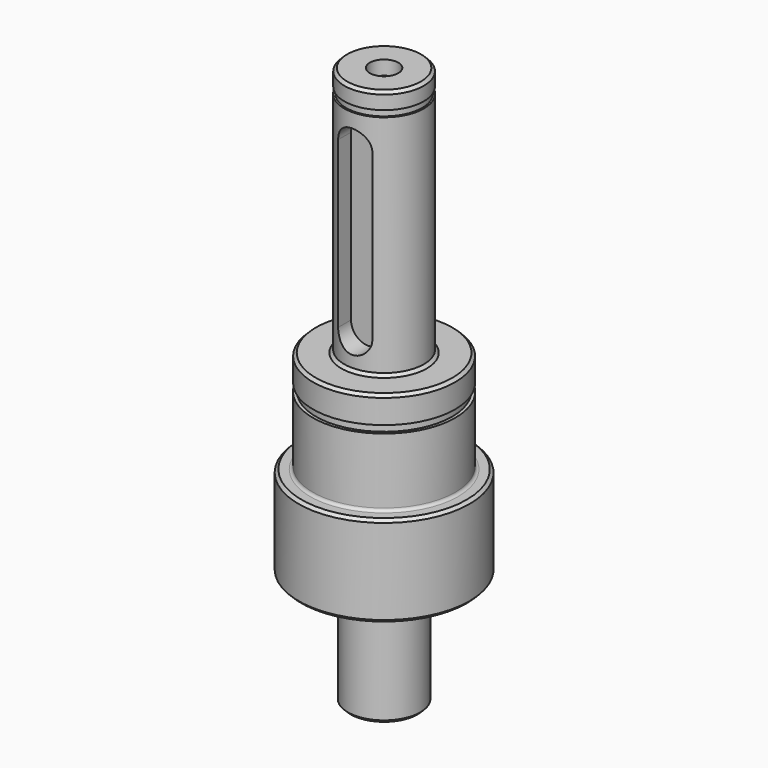
from build123d import *

# Parameters (mm, degrees)
F2_SIZE  = 0.5
F3_R     = 0.5
F6_DEPTH = 3.5


with BuildPart() as f1:
    # F0 (on Front) → F1 (revolve)
    with BuildSketch(Plane.XZ):
        Polygon((0, 15), (0, 0), (0, -68), (2.5, -70.5), (2.5, -75.5), (5, -78), (6.35, -78), (6.35, -58), (15, -58), (15, -42), (12.5, -42), (12.5, -30), (11.95, -30), (11.95, -28.7), (12.475, -28.7), (12.475, -24), (7, -24), (7, 16), (6.7, 16), (6.7, 17.1), (6.975, 17.1), (6.975, 20), (2.5, 20), (2.5, 17.5), align=None)
    revolve(axis=Axis((0, 0, 55.465363), (0, 0, 1)))

    # F2
    f2_edges = [f1.edges().sort_by_distance(p)[0] for p in [
        (-6.975, 0, 20),
        (-12.475, 0, -24),
        (-7, 0, -24),
        (-6.35, 0, -58),
        (-15, 0, -58),
        (-6.35, 0, -78),
        (-15, 0, -42),
    ]]
    chamfer(f2_edges, length=F2_SIZE)

    # F3
    f3_edges = [f1.edges().sort_by_distance(p)[0] for p in [
        (-12.5, 0, -42),
    ]]
    fillet(f3_edges, radius=F3_R)

    # F5 (on offset) → F6 (cut)
    with BuildSketch(Plane.XZ.offset(7)):
        with BuildLine():
            Line((3, -18.5), (3, 10.5))
            ThreePointArc((3, 10.5), (0, 13.5), (-3, 10.5))
            Line((-3, 10.5), (-3, -18.5))
            ThreePointArc((-3, -18.5), (0, -21.5), (3, -18.5))
        make_face()
    extrude(amount=-F6_DEPTH, mode=Mode.SUBTRACT)


solid = f1.part
